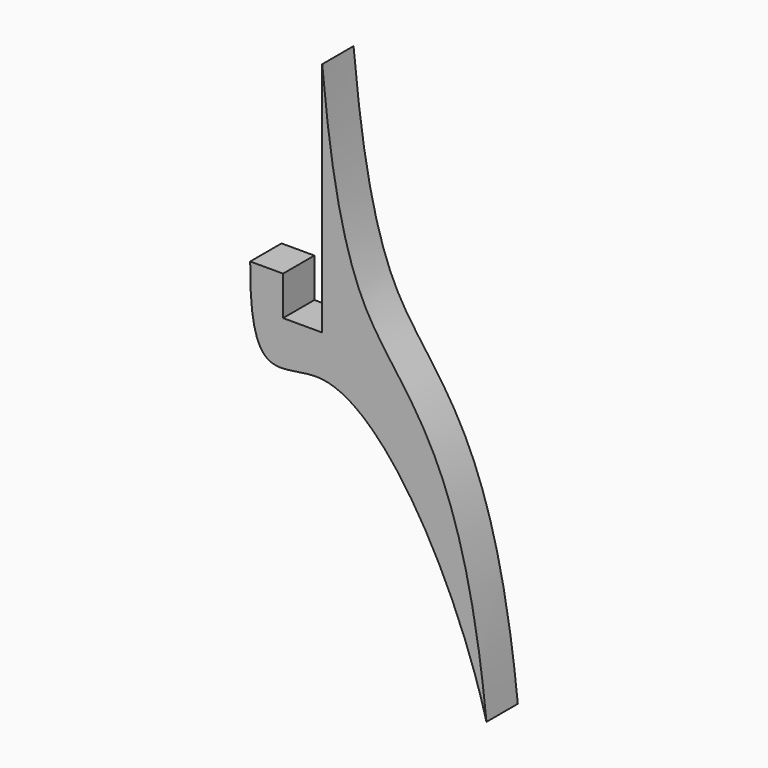
from build123d import *

# Parameters (mm, degrees)
F1_DEPTH = 5.96


with BuildPart() as f1:
    # F0 (on Front) → F1 (new body)
    with BuildSketch(Plane.XZ):
        with BuildLine():
            Line((0, 30), (0, 0))
            Line((0, 0), (0, -5.96))
            Line((0, -5.96), (-5.96, -5.96))
            Line((-5.96, -5.96), (-5.96, 0))
            Line((-5.96, 0), (-10.96, 0))
            add(Edge.make_bspline(
                [(-10.96, 0), (-11.1221029879, -17.6632285655), (3.0655637103, -1.4052068975), (20.5156708304, -33.1052866865), (25, -50)],
                knots=[0, 0, 0, 0, 0.3757322825, 1, 1, 1, 1], degree=3))
            add(Edge.make_bspline(
                [(0, 30), (0.8943757174, 20.6114059437), (4.3218059913, -8.5269714368), (21.2292548934, -13.3699283132), (25, -50)],
                knots=[0, 0, 0, 0, 0.4311946523, 1, 1, 1, 1], degree=3))
        make_face()
    extrude(amount=F1_DEPTH)


solid = f1.part
